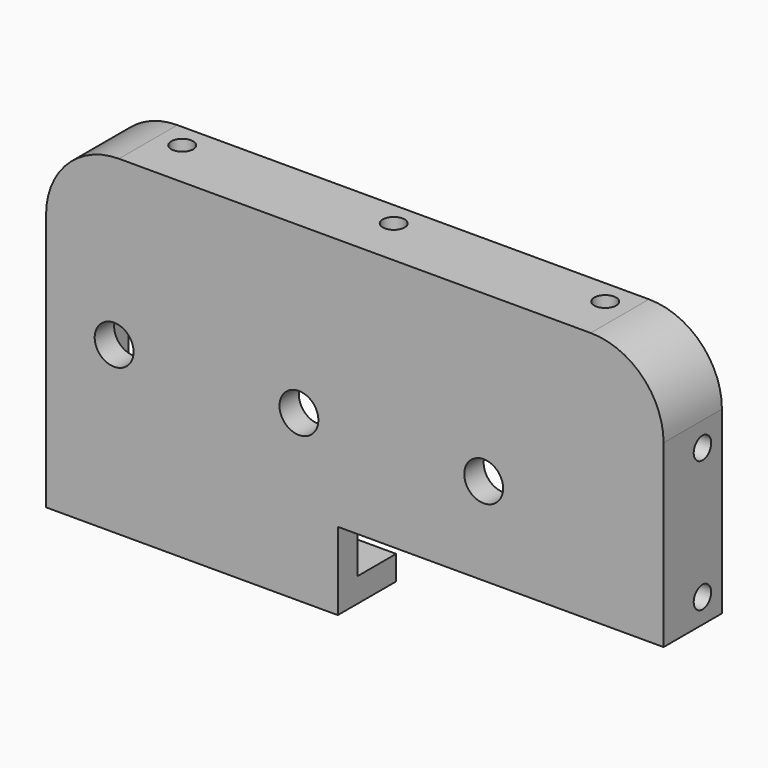
from build123d import *

# Parameters (mm, degrees)
F0_R     = 4
F1_DEPTH = 5
F3_DEPTH = 10
F4_R     = 2.25
F5_DEPTH = 5
F6_R     = 2.25
F7_DEPTH = 127.001
F8_R     = 2.25
F9_DEPTH = 5
F10_R    = 10
F11_R    = 15


with BuildPart() as f1:
    # F0 (on Front) → F1 (new body)
    with BuildSketch(Plane.XZ):
        Polygon((75, 77.609202), (-52, 77.609202), (-52, 9.609202), (8, 9.609202), (8, 25.609202), (75, 25.609202), align=None)
        with Locations((-38, 43.609202)):
            Circle(F0_R, mode=Mode.SUBTRACT)
        with Locations((0, 43.609202)):
            Circle(F0_R, mode=Mode.SUBTRACT)
        with Locations((38, 43.609202)):
            Circle(F0_R, mode=Mode.SUBTRACT)
    extrude(amount=F1_DEPTH)

    # F2 (on face) → F3 (join)
    with BuildSketch(Plane(origin=(0, 0, 0), x_dir=(-1, 0, 0), z_dir=(0, 1, 0))):
        Polygon((-75, 77.609202), (-75, 25.609202), (-70, 25.609202), (-70, 72.609202), (47, 72.609202), (47, 14.609202), (-8, 14.609202), (-8, 9.609202), (52, 9.609202), (52, 77.609202), align=None)
    extrude(amount=F3_DEPTH)

    # F4 (on face) → F5 (cut, through all)
    with BuildSketch(Plane(origin=(0, 0, 9.609202), x_dir=(1, 0, 0), z_dir=(0, 0, -1))):
        with Locations((-37, -5)):
            Circle(F4_R)
        with Locations((-2, -5)):
            Circle(F4_R)
    extrude(amount=-F5_DEPTH, mode=Mode.SUBTRACT)

    # F6 (on face) → F7 (cut, through all)
    with BuildSketch(Plane.YZ.offset(75)):
        with Locations((5, 30.609202)):
            Circle(F6_R)
        with Locations((5, 57.609202)):
            Circle(F6_R)
    extrude(amount=-F7_DEPTH, mode=Mode.SUBTRACT)

    # F8 (on face) → F9 (cut, through all)
    with BuildSketch(Plane.XY.offset(77.609202)):
        with Locations((55, 5)):
            Circle(F8_R)
        with Locations((11.5, 5)):
            Circle(F8_R)
        with Locations((-32, 5)):
            Circle(F8_R)
    extrude(amount=-F9_DEPTH, mode=Mode.SUBTRACT)

    # F10
    f10_edges = [f1.edges().sort_by_distance(p)[0] for p in [
        (70, 5, 72.609202),
        (-47, 5, 72.609202),
    ]]
    fillet(f10_edges, radius=F10_R)

    # F11
    f11_edges = [f1.edges().sort_by_distance(p)[0] for p in [
        (75, 2.5, 77.609202),
        (-52, 2.5, 77.609202),
    ]]
    fillet(f11_edges, radius=F11_R)


solid = f1.part
